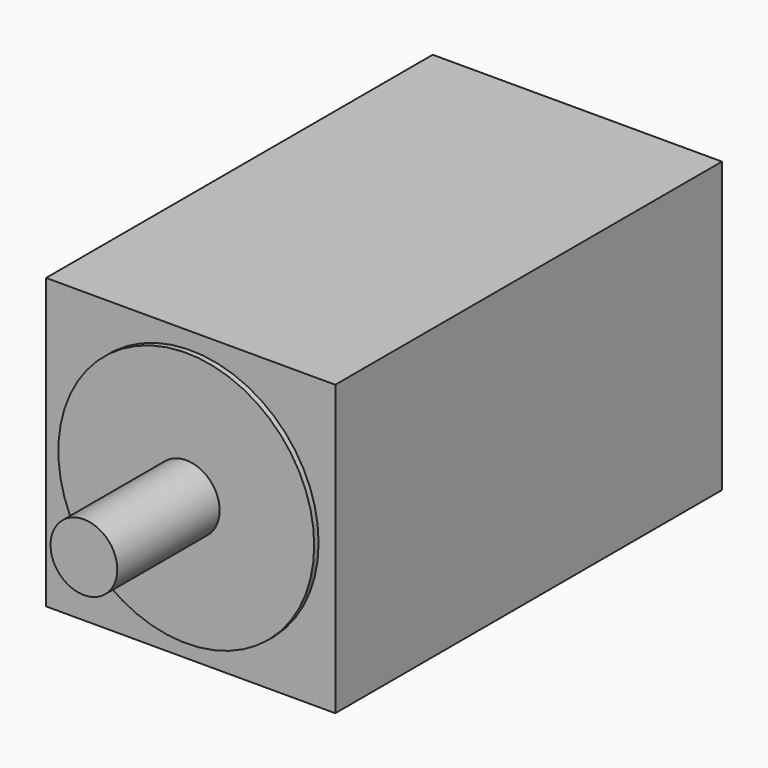
from build123d import *

# Parameters (mm, degrees)
F0_W     = 82.55
F0_H     = 82.55
F1_DEPTH = 137.9474
F2_R     = 36.5125
F3_DEPTH = 1.5748
F4_R     = 9.525
F5_DEPTH = 38.1


with BuildPart() as f1:
    # F0 (on Front) → F1 (new body)
    with BuildSketch(Plane.XZ):
        Rectangle(F0_W, F0_H)
    extrude(amount=-F1_DEPTH)

    # F2 (on Front) → F3 (join)
    with BuildSketch(Plane.XZ):
        Circle(F2_R)
    extrude(amount=F3_DEPTH)

    # F4 (on Front) → F5 (join)
    with BuildSketch(Plane.XZ):
        Circle(F4_R)
    extrude(amount=F5_DEPTH)


solid = f1.part
